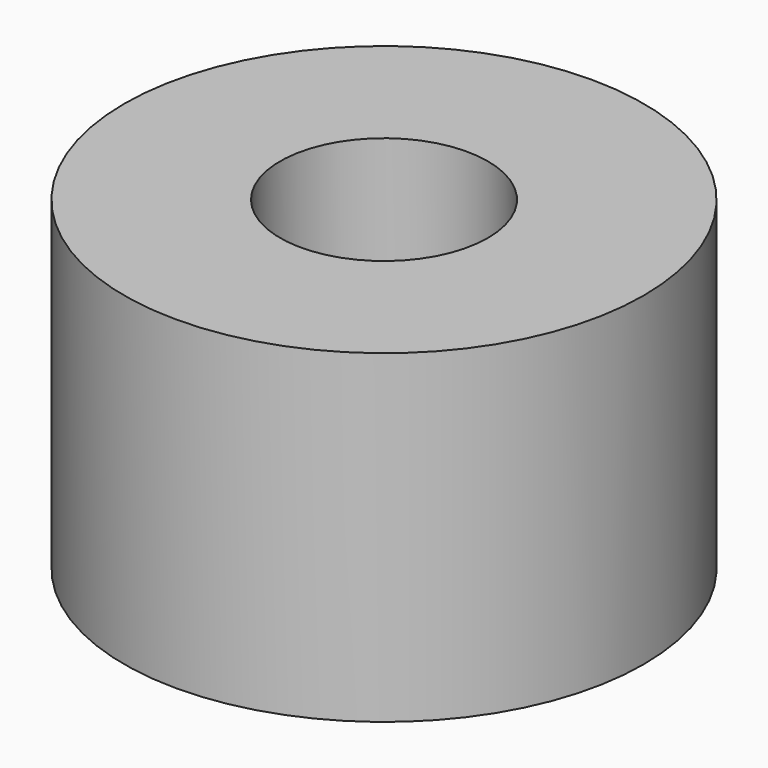
from build123d import *

# Parameters (mm, degrees)
SKETCH_R     = 2
PAD_DEPTH    = 2.5
SKETCH001_R  = 0.8
POCKET_DEPTH = 5


with BuildPart() as part:
    # Sketch → Pad (new body)
    with BuildSketch(Plane.XY):
        Circle(SKETCH_R)
    extrude(amount=PAD_DEPTH)

    # Sketch001 (on Face3 of Pad) → Pocket (cut)
    with BuildSketch(Plane.XY.offset(2.5)):
        Circle(SKETCH001_R)
    extrude(amount=-POCKET_DEPTH, mode=Mode.SUBTRACT)


solid = part.part
